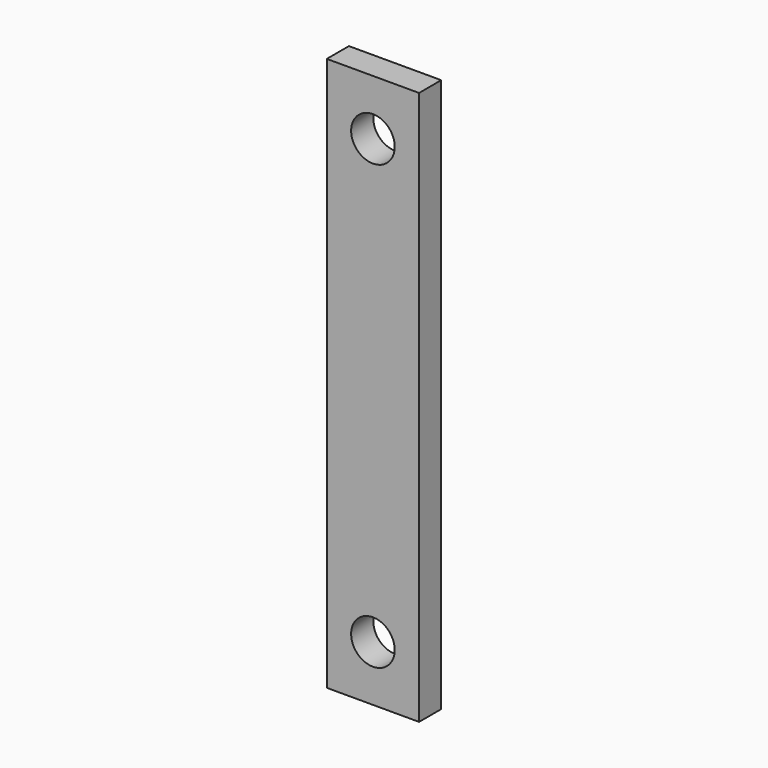
from build123d import *

# Parameters (mm, degrees)
F0_W     = 12.7
F0_H     = 76.2
F1_DEPTH = 3.81
F3_D     = 6


with BuildPart() as f1:
    # F0 (on Front) → F1 (new body)
    with BuildSketch(Plane.XZ):
        with Locations((-6.35, -38.1)):
            Rectangle(F0_W, F0_H)
    extrude(amount=F1_DEPTH)

    # F3 (through all)
    with Locations(Plane.XZ.offset(3.81)):
        with Locations((-6.35, -7.62), (-6.35, -68.58)):
            Hole(F3_D / 2)


solid = f1.part
